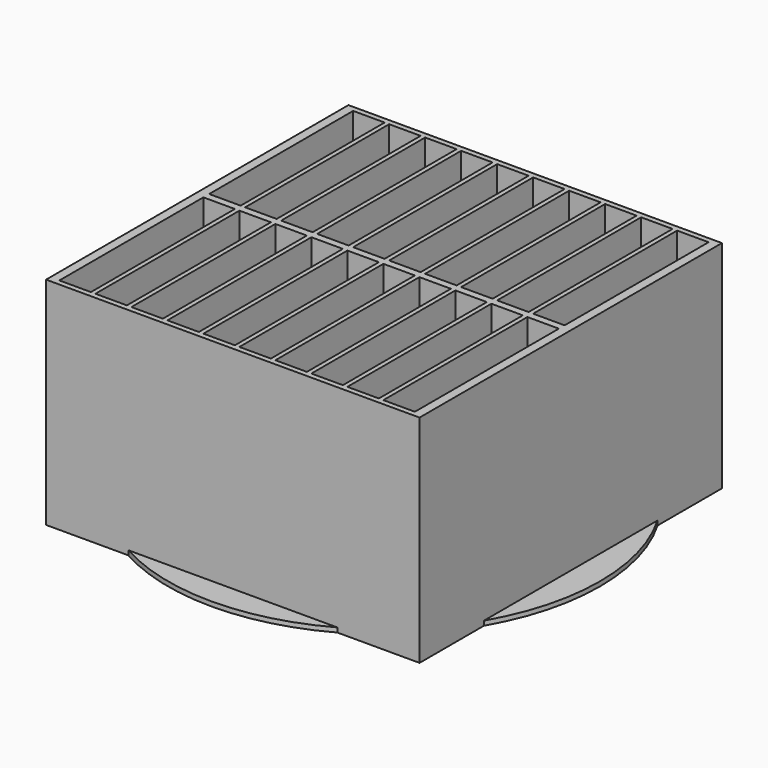
from build123d import *

# Parameters (mm, degrees)
F0_W     = 44.45
F0_H     = 254
F1_DEPTH = 304.8
F2_DEPTH = 6.35


with BuildPart() as f1:
    # F0 (on Top) → F1 (new body)
    with BuildSketch(Plane.XY):
        with BuildLine():
            ThreePointArc((-247.65, -178.2558048198), (-254.1946774379, -168.3708115465), (-260.35, -158.2387881089))
            Line((-260.35, -158.2387881089), (-260.35, -271.78))
            Line((-260.35, -271.78), (-144.3856654905, -271.78))
            ThreePointArc((-144.3856654905, -271.78), (-150.9341183646, -268.0503778696), (-157.3883631935, -264.16))
            Line((-157.3883631935, -264.16), (-196.85, -264.16))
            Line((-196.85, -264.16), (-196.85, -235.0648677087))
            ThreePointArc((-196.85, -235.0648677087), (-200.0448497603, -232.2467507876), (-203.2, -229.384256257))
            Line((-203.2, -229.384256257), (-203.2, -264.16))
            Line((-203.2, -264.16), (-247.65, -264.16))
            Line((-247.65, -264.16), (-247.65, -178.2558048198))
        make_face()
        with BuildLine():
            Line((150.7356654905, 261.62), (-144.3856654905, 261.62))
            ThreePointArc((-144.3856654905, 261.62), (-150.9341183646, 257.8903778696), (-157.3883631935, 254))
            Line((-157.3883631935, 254), (-152.4, 254))
            Line((-152.4, 254), (-152.4, 0))
            Line((-152.4, 0), (-196.85, 0))
            Line((-196.85, 0), (-196.85, 224.9048677087))
            ThreePointArc((-196.85, 224.9048677087), (-200.0448497603, 222.0867507876), (-203.2, 219.224256257))
            Line((-203.2, 219.224256257), (-203.2, 0))
            Line((-203.2, 0), (-247.65, 0))
            Line((-247.65, 0), (-247.65, 168.0958048198))
            ThreePointArc((-247.65, 168.0958048198), (-254.1946774379, 158.2108115465), (-260.35, 148.0787881089))
            Line((-260.35, 148.0787881089), (-260.35, -158.2387881089))
            ThreePointArc((-260.35, -158.2387881089), (-254.1946774379, -168.3708115465), (-247.65, -178.2558048198))
            Line((-247.65, -178.2558048198), (-247.65, -10.16))
            Line((-247.65, -10.16), (-203.2, -10.16))
            Line((-203.2, -10.16), (-203.2, -229.384256257))
            ThreePointArc((-203.2, -229.384256257), (-200.0448497603, -232.2467507876), (-196.85, -235.0648677087))
            Line((-196.85, -235.0648677087), (-196.85, -10.16))
            Line((-196.85, -10.16), (-152.4, -10.16))
            Line((-152.4, -10.16), (-152.4, -264.16))
            Line((-152.4, -264.16), (-157.3883631935, -264.16))
            ThreePointArc((-157.3883631935, -264.16), (-150.9341183646, -268.0503778696), (-144.3856654905, -271.78))
            Line((-144.3856654905, -271.78), (150.7356654905, -271.78))
            ThreePointArc((150.7356654905, -271.78), (157.2841183646, -268.0503778696), (163.7383631935, -264.16))
            Line((163.7383631935, -264.16), (158.75, -264.16))
            Line((158.75, -264.16), (158.75, -10.16))
            Line((158.75, -10.16), (203.2, -10.16))
            Line((203.2, -10.16), (203.2, -235.0648677087))
            ThreePointArc((203.2, -235.0648677087), (206.3948497603, -232.2467507876), (209.55, -229.384256257))
            Line((209.55, -229.384256257), (209.55, -10.16))
            Line((209.55, -10.16), (254, -10.16))
            Line((254, -10.16), (254, -178.2558048198))
            ThreePointArc((254, -178.2558048198), (260.5446774379, -168.3708115465), (266.7, -158.2387881089))
            Line((266.7, -158.2387881089), (266.7, 148.0787881089))
            ThreePointArc((266.7, 148.0787881089), (260.5446774379, 158.2108115465), (254, 168.0958048198))
            Line((254, 168.0958048198), (254, 0))
            Line((254, 0), (209.55, 0))
            Line((209.55, 0), (209.55, 219.224256257))
            ThreePointArc((209.55, 219.224256257), (206.3948497603, 222.0867507876), (203.2, 224.9048677087))
            Line((203.2, 224.9048677087), (203.2, 0))
            Line((203.2, 0), (158.75, 0))
            Line((158.75, 0), (158.75, 254))
            Line((158.75, 254), (163.7383631935, 254))
            ThreePointArc((163.7383631935, 254), (157.2841183646, 257.8903778696), (150.7356654905, 261.62))
        make_face()
        with Locations((-123.825, -137.16)):
            Rectangle(F0_W, F0_H, mode=Mode.SUBTRACT)
        with Locations((-73.025, -137.16)):
            Rectangle(F0_W, F0_H, mode=Mode.SUBTRACT)
        with Locations((-22.225, -137.16)):
            Rectangle(F0_W, F0_H, mode=Mode.SUBTRACT)
        with Locations((28.575, -137.16)):
            Rectangle(F0_W, F0_H, mode=Mode.SUBTRACT)
        with Locations((79.375, -137.16)):
            Rectangle(F0_W, F0_H, mode=Mode.SUBTRACT)
        with Locations((130.175, -137.16)):
            Rectangle(F0_W, F0_H, mode=Mode.SUBTRACT)
        with Locations((-123.825, 127)):
            Rectangle(F0_W, F0_H, mode=Mode.SUBTRACT)
        with Locations((-73.025, 127)):
            Rectangle(F0_W, F0_H, mode=Mode.SUBTRACT)
        with Locations((-22.225, 127)):
            Rectangle(F0_W, F0_H, mode=Mode.SUBTRACT)
        with Locations((28.575, 127)):
            Rectangle(F0_W, F0_H, mode=Mode.SUBTRACT)
        with Locations((79.375, 127)):
            Rectangle(F0_W, F0_H, mode=Mode.SUBTRACT)
        with Locations((130.175, 127)):
            Rectangle(F0_W, F0_H, mode=Mode.SUBTRACT)
        with BuildLine():
            Line((-144.3856654905, 261.62), (-260.35, 261.62))
            Line((-260.35, 261.62), (-260.35, 148.0787881089))
            ThreePointArc((-260.35, 148.0787881089), (-254.1946774379, 158.2108115465), (-247.65, 168.0958048198))
            Line((-247.65, 168.0958048198), (-247.65, 254))
            Line((-247.65, 254), (-203.2, 254))
            Line((-203.2, 254), (-203.2, 219.224256257))
            ThreePointArc((-203.2, 219.224256257), (-200.0448497603, 222.0867507876), (-196.85, 224.9048677087))
            Line((-196.85, 224.9048677087), (-196.85, 254))
            Line((-196.85, 254), (-157.3883631935, 254))
            ThreePointArc((-157.3883631935, 254), (-150.9341183646, 257.8903778696), (-144.3856654905, 261.62))
        make_face()
        with BuildLine():
            Line((266.7, 261.62), (150.7356654905, 261.62))
            ThreePointArc((150.7356654905, 261.62), (157.2841183646, 257.8903778696), (163.7383631935, 254))
            Line((163.7383631935, 254), (203.2, 254))
            Line((203.2, 254), (203.2, 224.9048677087))
            ThreePointArc((203.2, 224.9048677087), (206.3948497603, 222.0867507876), (209.55, 219.224256257))
            Line((209.55, 219.224256257), (209.55, 254))
            Line((209.55, 254), (254, 254))
            Line((254, 254), (254, 168.0958048198))
            ThreePointArc((254, 168.0958048198), (260.5446774379, 158.2108115465), (266.7, 148.0787881089))
            Line((266.7, 148.0787881089), (266.7, 261.62))
        make_face()
        with BuildLine():
            Line((266.7, -271.78), (266.7, -158.2387881089))
            ThreePointArc((266.7, -158.2387881089), (260.5446774379, -168.3708115465), (254, -178.2558048198))
            Line((254, -178.2558048198), (254, -264.16))
            Line((254, -264.16), (209.55, -264.16))
            Line((209.55, -264.16), (209.55, -229.384256257))
            ThreePointArc((209.55, -229.384256257), (206.3948497603, -232.2467507876), (203.2, -235.0648677087))
            Line((203.2, -235.0648677087), (203.2, -264.16))
            Line((203.2, -264.16), (163.7383631935, -264.16))
            ThreePointArc((163.7383631935, -264.16), (157.2841183646, -268.0503778696), (150.7356654905, -271.78))
            Line((150.7356654905, -271.78), (266.7, -271.78))
        make_face()
    extrude(amount=F1_DEPTH)

    # F0 (on Top) → F2 (join)
    with BuildSketch(Plane.XY):
        with BuildLine():
            Line((-260.35, -158.2387881089), (-260.35, 148.0787881089))
            ThreePointArc((-260.35, 148.0787881089), (-301.625, -5.08), (-260.35, -158.2387881089))
        make_face()
        with BuildLine():
            Line((150.7356654905, 261.62), (-144.3856654905, 261.62))
            ThreePointArc((-144.3856654905, 261.62), (-150.9341183646, 257.8903778696), (-157.3883631935, 254))
            Line((-157.3883631935, 254), (-152.4, 254))
            Line((-152.4, 254), (-152.4, 0))
            Line((-152.4, 0), (-196.85, 0))
            Line((-196.85, 0), (-196.85, 224.9048677087))
            ThreePointArc((-196.85, 224.9048677087), (-200.0448497603, 222.0867507876), (-203.2, 219.224256257))
            Line((-203.2, 219.224256257), (-203.2, 0))
            Line((-203.2, 0), (-247.65, 0))
            Line((-247.65, 0), (-247.65, 168.0958048198))
            ThreePointArc((-247.65, 168.0958048198), (-254.1946774379, 158.2108115465), (-260.35, 148.0787881089))
            Line((-260.35, 148.0787881089), (-260.35, -158.2387881089))
            ThreePointArc((-260.35, -158.2387881089), (-254.1946774379, -168.3708115465), (-247.65, -178.2558048198))
            Line((-247.65, -178.2558048198), (-247.65, -10.16))
            Line((-247.65, -10.16), (-203.2, -10.16))
            Line((-203.2, -10.16), (-203.2, -229.384256257))
            ThreePointArc((-203.2, -229.384256257), (-200.0448497603, -232.2467507876), (-196.85, -235.0648677087))
            Line((-196.85, -235.0648677087), (-196.85, -10.16))
            Line((-196.85, -10.16), (-152.4, -10.16))
            Line((-152.4, -10.16), (-152.4, -264.16))
            Line((-152.4, -264.16), (-157.3883631935, -264.16))
            ThreePointArc((-157.3883631935, -264.16), (-150.9341183646, -268.0503778696), (-144.3856654905, -271.78))
            Line((-144.3856654905, -271.78), (150.7356654905, -271.78))
            ThreePointArc((150.7356654905, -271.78), (157.2841183646, -268.0503778696), (163.7383631935, -264.16))
            Line((163.7383631935, -264.16), (158.75, -264.16))
            Line((158.75, -264.16), (158.75, -10.16))
            Line((158.75, -10.16), (203.2, -10.16))
            Line((203.2, -10.16), (203.2, -235.0648677087))
            ThreePointArc((203.2, -235.0648677087), (206.3948497603, -232.2467507876), (209.55, -229.384256257))
            Line((209.55, -229.384256257), (209.55, -10.16))
            Line((209.55, -10.16), (254, -10.16))
            Line((254, -10.16), (254, -178.2558048198))
            ThreePointArc((254, -178.2558048198), (260.5446774379, -168.3708115465), (266.7, -158.2387881089))
            Line((266.7, -158.2387881089), (266.7, 148.0787881089))
            ThreePointArc((266.7, 148.0787881089), (260.5446774379, 158.2108115465), (254, 168.0958048198))
            Line((254, 168.0958048198), (254, 0))
            Line((254, 0), (209.55, 0))
            Line((209.55, 0), (209.55, 219.224256257))
            ThreePointArc((209.55, 219.224256257), (206.3948497603, 222.0867507876), (203.2, 224.9048677087))
            Line((203.2, 224.9048677087), (203.2, 0))
            Line((203.2, 0), (158.75, 0))
            Line((158.75, 0), (158.75, 254))
            Line((158.75, 254), (163.7383631935, 254))
            ThreePointArc((163.7383631935, 254), (157.2841183646, 257.8903778696), (150.7356654905, 261.62))
        make_face()
        with Locations((-123.825, -137.16)):
            Rectangle(F0_W, F0_H, mode=Mode.SUBTRACT)
        with Locations((-73.025, -137.16)):
            Rectangle(F0_W, F0_H, mode=Mode.SUBTRACT)
        with Locations((-22.225, -137.16)):
            Rectangle(F0_W, F0_H, mode=Mode.SUBTRACT)
        with Locations((28.575, -137.16)):
            Rectangle(F0_W, F0_H, mode=Mode.SUBTRACT)
        with Locations((79.375, -137.16)):
            Rectangle(F0_W, F0_H, mode=Mode.SUBTRACT)
        with Locations((130.175, -137.16)):
            Rectangle(F0_W, F0_H, mode=Mode.SUBTRACT)
        with Locations((-123.825, 127)):
            Rectangle(F0_W, F0_H, mode=Mode.SUBTRACT)
        with Locations((-73.025, 127)):
            Rectangle(F0_W, F0_H, mode=Mode.SUBTRACT)
        with Locations((-22.225, 127)):
            Rectangle(F0_W, F0_H, mode=Mode.SUBTRACT)
        with Locations((28.575, 127)):
            Rectangle(F0_W, F0_H, mode=Mode.SUBTRACT)
        with Locations((79.375, 127)):
            Rectangle(F0_W, F0_H, mode=Mode.SUBTRACT)
        with Locations((130.175, 127)):
            Rectangle(F0_W, F0_H, mode=Mode.SUBTRACT)
        with BuildLine():
            Line((-247.65, -10.16), (-247.65, -178.2558048198))
            ThreePointArc((-247.65, -178.2558048198), (-226.8499761147, -205.0588747928), (-203.2, -229.384256257))
            Line((-203.2, -229.384256257), (-203.2, -10.16))
            Line((-203.2, -10.16), (-247.65, -10.16))
        make_face()
        with BuildLine():
            ThreePointArc((-196.85, -235.0648677087), (-177.7051359973, -250.4071619727), (-157.3883631935, -264.16))
            Line((-157.3883631935, -264.16), (-152.4, -264.16))
            Line((-152.4, -264.16), (-152.4, -10.16))
            Line((-152.4, -10.16), (-196.85, -10.16))
            Line((-196.85, -10.16), (-196.85, -235.0648677087))
        make_face()
        with Locations((-123.825, -137.16)):
            Rectangle(F0_W, F0_H)
        with Locations((-73.025, -137.16)):
            Rectangle(F0_W, F0_H)
        with Locations((-22.225, -137.16)):
            Rectangle(F0_W, F0_H)
        with Locations((28.575, -137.16)):
            Rectangle(F0_W, F0_H)
        with Locations((79.375, -137.16)):
            Rectangle(F0_W, F0_H)
        with Locations((130.175, -137.16)):
            Rectangle(F0_W, F0_H)
        with BuildLine():
            Line((158.75, -264.16), (163.7383631935, -264.16))
            ThreePointArc((163.7383631935, -264.16), (184.0551359973, -250.4071619727), (203.2, -235.0648677087))
            Line((203.2, -235.0648677087), (203.2, -10.16))
            Line((203.2, -10.16), (158.75, -10.16))
            Line((158.75, -10.16), (158.75, -264.16))
        make_face()
        with BuildLine():
            ThreePointArc((209.55, -229.384256257), (233.1999761147, -205.0588747928), (254, -178.2558048198))
            Line((254, -178.2558048198), (254, -10.16))
            Line((254, -10.16), (209.55, -10.16))
            Line((209.55, -10.16), (209.55, -229.384256257))
        make_face()
        with BuildLine():
            Line((254, 0), (254, 168.0958048198))
            ThreePointArc((254, 168.0958048198), (233.1999761147, 194.8988747928), (209.55, 219.224256257))
            Line((209.55, 219.224256257), (209.55, 0))
            Line((209.55, 0), (254, 0))
        make_face()
        with BuildLine():
            ThreePointArc((203.2, 224.9048677087), (184.0551359973, 240.2471619727), (163.7383631935, 254))
            Line((163.7383631935, 254), (158.75, 254))
            Line((158.75, 254), (158.75, 0))
            Line((158.75, 0), (203.2, 0))
            Line((203.2, 0), (203.2, 224.9048677087))
        make_face()
        with Locations((130.175, 127)):
            Rectangle(F0_W, F0_H)
        with Locations((79.375, 127)):
            Rectangle(F0_W, F0_H)
        with Locations((28.575, 127)):
            Rectangle(F0_W, F0_H)
        with Locations((-22.225, 127)):
            Rectangle(F0_W, F0_H)
        with Locations((-123.825, 127)):
            Rectangle(F0_W, F0_H)
        with BuildLine():
            Line((-152.4, 254), (-157.3883631935, 254))
            ThreePointArc((-157.3883631935, 254), (-177.7051359973, 240.2471619727), (-196.85, 224.9048677087))
            Line((-196.85, 224.9048677087), (-196.85, 0))
            Line((-196.85, 0), (-152.4, 0))
            Line((-152.4, 0), (-152.4, 254))
        make_face()
        with BuildLine():
            ThreePointArc((-203.2, 219.224256257), (-226.8499761147, 194.8988747928), (-247.65, 168.0958048198))
            Line((-247.65, 168.0958048198), (-247.65, 0))
            Line((-247.65, 0), (-203.2, 0))
            Line((-203.2, 0), (-203.2, 219.224256257))
        make_face()
        with Locations((-73.025, 127)):
            Rectangle(F0_W, F0_H)
        with BuildLine():
            Line((150.7356654905, -271.78), (-144.3856654905, -271.78))
            ThreePointArc((-144.3856654905, -271.78), (3.175, -309.88), (150.7356654905, -271.78))
        make_face()
        with BuildLine():
            ThreePointArc((307.975, -5.08), (297.4754077469, 74.2314745797), (266.7, 148.0787881089))
            Line((266.7, 148.0787881089), (266.7, -158.2387881089))
            ThreePointArc((266.7, -158.2387881089), (297.4754077469, -84.3914745797), (307.975, -5.08))
        make_face()
        with BuildLine():
            ThreePointArc((150.7356654905, 261.62), (3.175, 299.72), (-144.3856654905, 261.62))
            Line((-144.3856654905, 261.62), (150.7356654905, 261.62))
        make_face()
        with BuildLine():
            ThreePointArc((203.2, -235.0648677087), (184.0551359973, -250.4071619727), (163.7383631935, -264.16))
            Line((163.7383631935, -264.16), (203.2, -264.16))
            Line((203.2, -264.16), (203.2, -235.0648677087))
        make_face()
        with BuildLine():
            ThreePointArc((-203.2, -229.384256257), (-226.8499761147, -205.0588747928), (-247.65, -178.2558048198))
            Line((-247.65, -178.2558048198), (-247.65, -264.16))
            Line((-247.65, -264.16), (-203.2, -264.16))
            Line((-203.2, -264.16), (-203.2, -229.384256257))
        make_face()
        with BuildLine():
            Line((-196.85, -264.16), (-157.3883631935, -264.16))
            ThreePointArc((-157.3883631935, -264.16), (-177.7051359973, -250.4071619727), (-196.85, -235.0648677087))
            Line((-196.85, -235.0648677087), (-196.85, -264.16))
        make_face()
        with BuildLine():
            Line((254, -264.16), (254, -178.2558048198))
            ThreePointArc((254, -178.2558048198), (233.1999761147, -205.0588747928), (209.55, -229.384256257))
            Line((209.55, -229.384256257), (209.55, -264.16))
            Line((209.55, -264.16), (254, -264.16))
        make_face()
        with BuildLine():
            ThreePointArc((209.55, 219.224256257), (233.1999761147, 194.8988747928), (254, 168.0958048198))
            Line((254, 168.0958048198), (254, 254))
            Line((254, 254), (209.55, 254))
            Line((209.55, 254), (209.55, 219.224256257))
        make_face()
        with BuildLine():
            Line((203.2, 254), (163.7383631935, 254))
            ThreePointArc((163.7383631935, 254), (184.0551359973, 240.2471619727), (203.2, 224.9048677087))
            Line((203.2, 224.9048677087), (203.2, 254))
        make_face()
        with BuildLine():
            ThreePointArc((-196.85, 224.9048677087), (-177.7051359973, 240.2471619727), (-157.3883631935, 254))
            Line((-157.3883631935, 254), (-196.85, 254))
            Line((-196.85, 254), (-196.85, 224.9048677087))
        make_face()
        with BuildLine():
            Line((-247.65, 254), (-247.65, 168.0958048198))
            ThreePointArc((-247.65, 168.0958048198), (-226.8499761147, 194.8988747928), (-203.2, 219.224256257))
            Line((-203.2, 219.224256257), (-203.2, 254))
            Line((-203.2, 254), (-247.65, 254))
        make_face()
    extrude(amount=F2_DEPTH)


solid = f1.part
